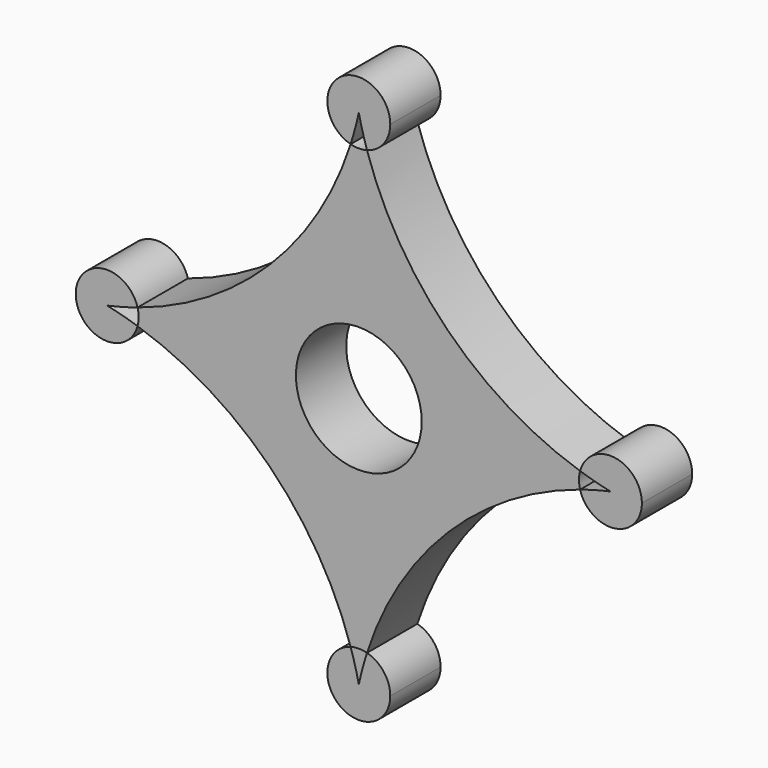
from build123d import *

# Parameters (mm, degrees)
F0_R     = 12.7
F1_DEPTH = 12.7


with BuildPart() as f1:
    # F0 (on Front) → F1 (new body)
    with BuildSketch(Plane.XZ):
        with BuildLine():
            ThreePointArc((44.668767972, -1.652420594), (44.45, 0), (44.668767972, 1.652420594))
            ThreePointArc((44.668767972, 1.652420594), (17.9605122421, 17.9605122421), (1.652420594, 44.668767972))
            ThreePointArc((1.652420594, 44.668767972), (0, 44.45), (-1.652420594, 44.668767972))
            ThreePointArc((-1.652420594, 44.668767972), (-17.9605122421, 17.9605122421), (-44.668767972, 1.652420594))
            ThreePointArc((-44.668767972, 1.652420594), (-44.5049295724, 0.8334196489), (-44.45, 0))
            ThreePointArc((-44.45, 0), (-44.5049295724, -0.8334196489), (-44.668767972, -1.652420594))
            ThreePointArc((-44.668767972, -1.652420594), (-17.9605122421, -17.9605122421), (-1.652420594, -44.668767972))
            ThreePointArc((-1.652420594, -44.668767972), (0, -44.45), (1.652420594, -44.668767972))
            ThreePointArc((1.652420594, -44.668767972), (17.9605122421, -17.9605122421), (44.668767972, -1.652420594))
        make_face()
        Circle(F0_R, mode=Mode.SUBTRACT)
    extrude(amount=F1_DEPTH)


with BuildPart() as f1b:
    # F0 (on Front) → F1, piece 2 (new body)
    with BuildSketch(Plane.XZ):
        with BuildLine():
            ThreePointArc((-50.8, 0), (-47.7146734868, 0.7530753794), (-44.668767972, 1.652420594))
            ThreePointArc((-44.668767972, 1.652420594), (-57.15, 0), (-44.668767972, -1.652420594))
            ThreePointArc((-44.668767972, -1.652420594), (-47.7146734868, -0.7530753794), (-50.8, 0))
        make_face()
    extrude(amount=F1_DEPTH)


with BuildPart() as f1c:
    # F0 (on Front) → F1, piece 3 (new body)
    with BuildSketch(Plane.XZ):
        with BuildLine():
            ThreePointArc((0, 50.8), (0.7530753794, 47.7146734868), (1.652420594, 44.668767972))
            ThreePointArc((1.652420594, 44.668767972), (5.0406036728, 46.9380296979), (6.35, 50.8))
            ThreePointArc((6.35, 50.8), (-3.8619703021, 55.8406036728), (-1.652420594, 44.668767972))
            ThreePointArc((-1.652420594, 44.668767972), (-0.7530753794, 47.7146734868), (0, 50.8))
        make_face()
    extrude(amount=F1_DEPTH)


with BuildPart() as f1d:
    # F0 (on Front) → F1, piece 4 (new body)
    with BuildSketch(Plane.XZ):
        with BuildLine():
            ThreePointArc((44.668767972, -1.652420594), (51.6334196489, -6.2950704276), (57.15, 0))
            ThreePointArc((57.15, 0), (51.6334196489, 6.2950704276), (44.668767972, 1.652420594))
            ThreePointArc((44.668767972, 1.652420594), (47.7146734868, 0.7530753794), (50.8, 0))
            ThreePointArc((50.8, 0), (47.7146734868, -0.7530753794), (44.668767972, -1.652420594))
        make_face()
    extrude(amount=F1_DEPTH)


with BuildPart() as f1e:
    # F0 (on Front) → F1, piece 5 (new body)
    with BuildSketch(Plane.XZ):
        with BuildLine():
            ThreePointArc((6.35, -50.8), (5.0406036728, -46.9380296979), (1.652420594, -44.668767972))
            ThreePointArc((1.652420594, -44.668767972), (0.7530753794, -47.7146734868), (0, -50.8))
            ThreePointArc((0, -50.8), (-0.7530753794, -47.7146734868), (-1.652420594, -44.668767972))
            ThreePointArc((-1.652420594, -44.668767972), (-3.8619703021, -55.8406036728), (6.35, -50.8))
        make_face()
    extrude(amount=F1_DEPTH)


solid = Compound([f1.part, f1b.part, f1c.part, f1d.part, f1e.part])
